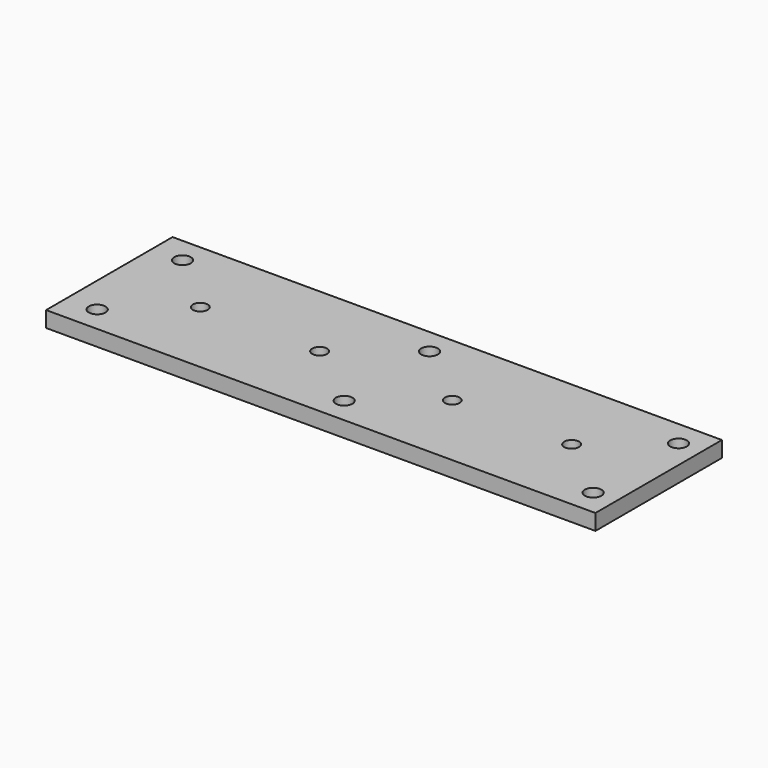
from build123d import *

# Parameters (mm, degrees)
F0_W     = 441.325
F0_H     = 127
F0_R     = 6.6675
F1_DEPTH = 12.7
F2_D     = 11.90752
F2_DEPTH = 19.3901785714
F2_TIP   = 3.5773799191


with BuildPart() as f1:
    # F0 (on Top) → F1 (new body)
    with BuildSketch(Plane.XY):
        Rectangle(F0_W, F0_H)
        with Locations((-196.1515, -42.8625)):
            Circle(F0_R, mode=Mode.SUBTRACT)
        with Locations((2.286, -42.8625)):
            Circle(F0_R, mode=Mode.SUBTRACT)
        with Locations((202.311, -42.8625)):
            Circle(F0_R, mode=Mode.SUBTRACT)
        with Locations((-196.1515, 42.8625)):
            Circle(F0_R, mode=Mode.SUBTRACT)
        with Locations((2.286, 42.8625)):
            Circle(F0_R, mode=Mode.SUBTRACT)
        with Locations((202.311, 42.8625)):
            Circle(F0_R, mode=Mode.SUBTRACT)
    extrude(amount=F1_DEPTH)

    # F2
    with Locations(Plane(origin=(0, 0, 0), x_dir=(1, 0, 0), z_dir=(0, 0, -1))):
        with Locations((-147.574, 0), (-51.689, 0), (54.864, 0), (150.749, 0)):
            Hole(F2_D / 2, depth=F2_DEPTH)
            with Locations((0, 0, -(F2_DEPTH + F2_TIP / 2))):  # 118° drill point
                Cone(0, F2_D / 2, F2_TIP, mode=Mode.SUBTRACT)


solid = f1.part
